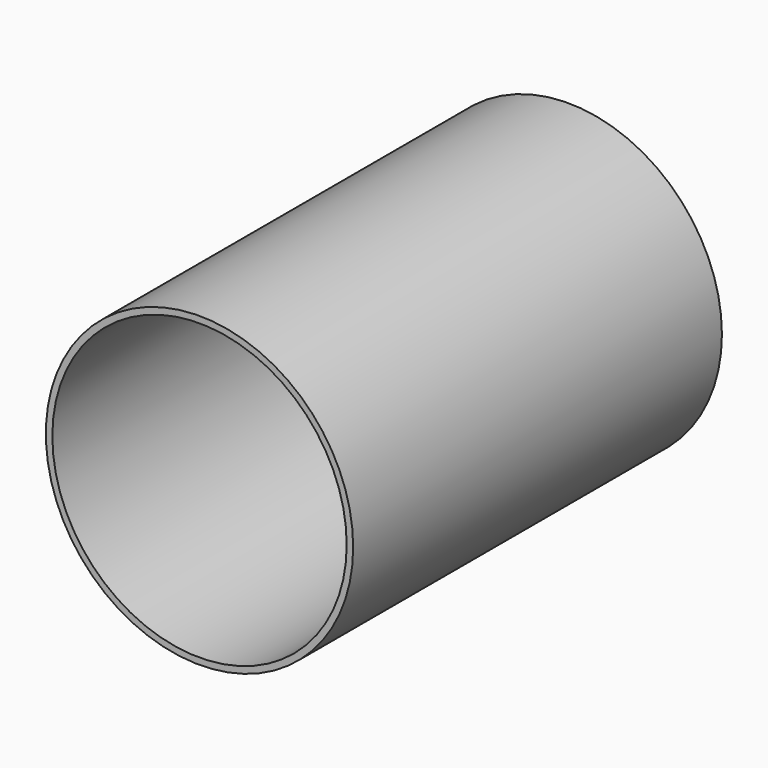
from build123d import *

# Parameters (mm, degrees)
F0_R      = 50.8
F1_DEPTH  = 152.4
F2_R      = 48.661365
F3_DEPTH  = 139.7
F3_FACE_R = 48.661365
F4_DEPTH  = 139.7


with BuildPart() as f1:
    # F0 (on Front) → F1 (new body)
    with BuildSketch(Plane.XZ):
        Circle(F0_R)
    extrude(amount=F1_DEPTH)

    # F2 (on face) → F3 (cut)
    with BuildSketch(Plane.XZ.offset(152.4)):
        Circle(F2_R)
    extrude(amount=-F3_DEPTH, mode=Mode.SUBTRACT)

    # F2 (on face) + F3_face (on face) → F4 (cut)
    with BuildSketch(Plane.XZ.offset(152.4)):
        Circle(F2_R)
    with BuildSketch(Plane.XZ.offset(12.7)):
        Circle(F3_FACE_R)
    extrude(amount=-F4_DEPTH, mode=Mode.SUBTRACT)


solid = f1.part
